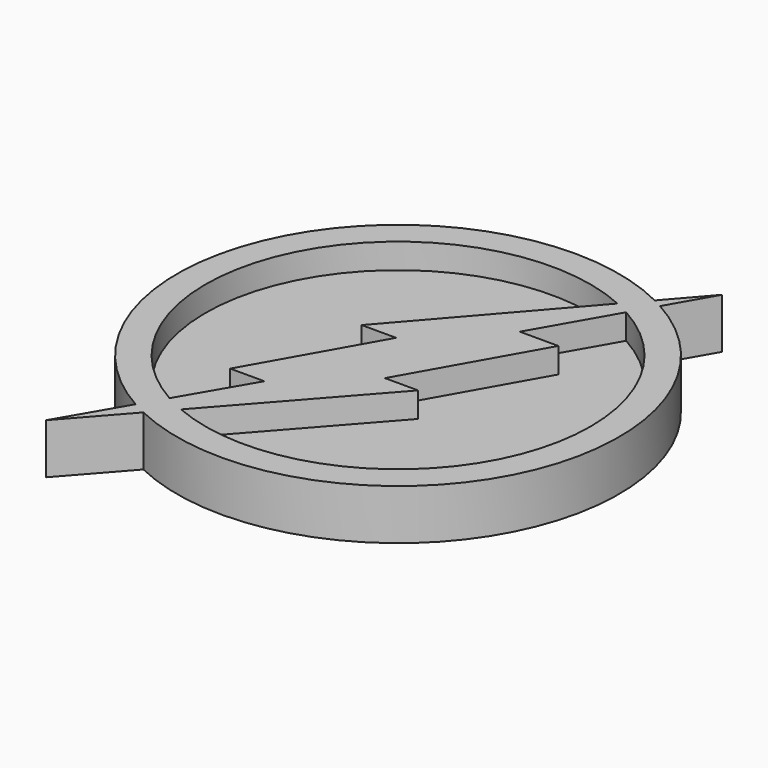
from build123d import *

# Parameters (mm, degrees)
F1_DEPTH = 10.16
F2_DEPTH = 5.08


with BuildPart() as f1:
    # F0 (on Top) → F1 (new body)
    with BuildSketch(Plane.XY):
        with BuildLine():
            ThreePointArc((19.8948644209, 39.9997688602), (20.8320918018, 39.5197556971), (21.7577454104, 39.0177863782))
            Line((21.7577454104, 39.0177863782), (26.9711147994, 48.1350496411))
            Line((26.9711147994, 48.1350496411), (19.8948644209, 39.9997688602))
        make_face()
        with BuildLine():
            Line((-29.5520797372, -52.0064979792), (-19.2228405766, -40.327032365))
            ThreePointArc((-19.2228405766, -40.327032365), (-20.5915769431, -39.6456062912), (-21.9361932063, -38.9177410292))
            Line((-21.9361932063, -38.9177410292), (-29.5520797372, -52.0064979792))
        make_face()
        with BuildLine():
            ThreePointArc((-19.2228405766, -40.327032365), (23.8434631573, -37.7793118501), (44.6742335043, 0))
            ThreePointArc((44.6742335043, 0), (38.5214079324, 22.624947958), (21.7577454104, 39.0177863782))
            Line((21.7577454104, 39.0177863782), (18.8999443356, 34.0199965021))
            ThreePointArc((18.8999443356, 34.0199965021), (33.5418077285, 19.7361392424), (38.9174518423, 0))
            ThreePointArc((38.9174518423, 0), (21.4688277759, -32.460090755), (-15.2308770921, -35.8132439315))
            Line((-15.2308770922, -35.8132439315), (-19.2228405766, -40.327032365))
        make_face()
        with BuildLine():
            Line((18.8999443356, 34.0199965021), (21.7577454104, 39.0177863782))
            ThreePointArc((21.7577454104, 39.0177863782), (20.8320918018, 39.5197556971), (19.8948644209, 39.9997688602))
            Line((19.8948644209, 39.9997688602), (15.971442641, 35.4891684583))
            ThreePointArc((15.971442641, 35.4891684583), (17.4511611069, 34.7854140972), (18.8999443356, 34.0199965021))
        make_face()
        with BuildLine():
            ThreePointArc((-21.9361932063, -38.9177410292), (-20.5915769431, -39.6456062912), (-19.2228405766, -40.327032365))
            Line((-19.2228405766, -40.327032365), (-15.2308770922, -35.8132439315))
            ThreePointArc((-15.2308770921, -35.8132439315), (-17.1613070553, -34.9293228971), (-19.0406590573, -33.9414401662))
            Line((-19.0406590573, -33.9414401662), (-21.9361932063, -38.9177410292))
        make_face()
        with BuildLine():
            Line((9.9367275834, 18.344911789), (18.8999443356, 34.0199965021))
            ThreePointArc((18.8999443356, 34.0199965021), (17.4511611069, 34.7854140972), (15.971442641, 35.4891684583))
            Line((15.971442641, 35.4891684583), (-10.9691135585, 4.5166932978))
            Line((-10.9691135585, 4.5166932978), (-4.0004979819, 4.5166932978))
            Line((-4.0004979819, 4.5166932978), (-17.8778032411, -20.0695820685))
            Line((-17.8778032411, -20.0695820685), (-10.9691135585, -20.0695820685))
            Line((-10.9691135585, -20.0695820685), (-19.0406590573, -33.9414401662))
            ThreePointArc((-19.0406590573, -33.9414401662), (-17.1613070553, -34.9293228971), (-15.2308770921, -35.8132439315))
            Line((-15.2308770922, -35.8132439315), (9.9367275834, -7.3557584547))
            Line((9.9367275834, -7.3557584547), (3.2262078021, -7.3557584547))
            Line((3.2262078021, -7.3557584547), (17.7325143094, 18.344911789))
            Line((17.7325143094, 18.344911789), (9.9367275834, 18.344911789))
        make_face()
        with BuildLine():
            Line((15.971442641, 35.4891684583), (19.8948644209, 39.9997688602))
            ThreePointArc((19.8948644209, 39.9997688602), (-39.4719533034, 20.9225247427), (-21.9361932063, -38.9177410292))
            Line((-21.9361932063, -38.9177410292), (-19.0406590573, -33.9414401662))
            ThreePointArc((-19.0406590573, -33.9414401662), (-34.7492068376, 17.5231470361), (15.971442641, 35.4891684583))
        make_face()
    extrude(amount=F1_DEPTH)

    # F0 (on Top) → F2 (join)
    with BuildSketch(Plane.XY):
        with BuildLine():
            Line((-10.9691135585, 4.5166932978), (15.971442641, 35.4891684583))
            ThreePointArc((15.971442641, 35.4891684583), (-34.7492068376, 17.5231470361), (-19.0406590573, -33.9414401662))
            Line((-19.0406590573, -33.9414401662), (-10.9691135585, -20.0695820685))
            Line((-10.9691135585, -20.0695820685), (-17.8778032411, -20.0695820685))
            Line((-17.8778032411, -20.0695820685), (-4.0004979819, 4.5166932978))
            Line((-4.0004979819, 4.5166932978), (-10.9691135585, 4.5166932978))
        make_face()
        with BuildLine():
            ThreePointArc((38.9174518423, 0), (33.5418077285, 19.7361392424), (18.8999443356, 34.0199965021))
            Line((18.8999443356, 34.0199965021), (9.9367275834, 18.344911789))
            Line((9.9367275834, 18.344911789), (17.7325143094, 18.344911789))
            Line((17.7325143094, 18.344911789), (3.2262078021, -7.3557584547))
            Line((3.2262078021, -7.3557584547), (9.9367275834, -7.3557584547))
            Line((9.9367275834, -7.3557584547), (-15.2308770922, -35.8132439315))
            ThreePointArc((-15.2308770921, -35.8132439315), (21.4688277759, -32.460090755), (38.9174518423, 0))
        make_face()
    extrude(amount=F2_DEPTH)


solid = f1.part
